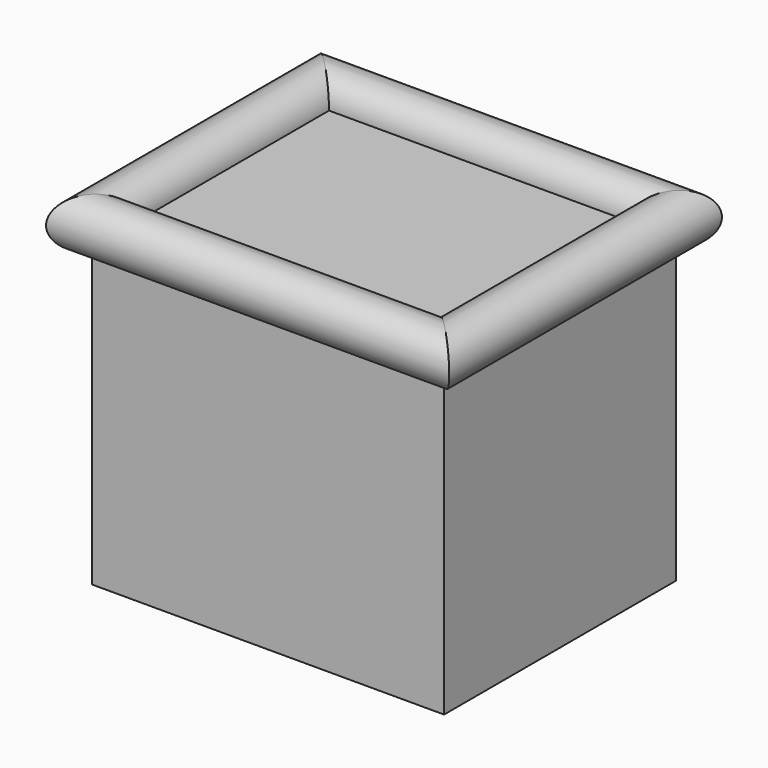
from build123d import *

# Parameters (mm, degrees)
F0_W     = 36.5402661264
F0_H     = 30.0811380148
F1_DEPTH = 33.02


with BuildPart() as f1:
    # F0 (on Top) → F1 (new body)
    with BuildSketch(Plane.XY):
        with Locations((18.2701330632, 15.0405690074)):
            Rectangle(F0_W, F0_H)
    extrude(amount=F1_DEPTH)

    # F3: sweep along a path in F3_path
    with BuildLine(Plane(origin=(0, 0, 33.02), x_dir=(0, -1, 0), z_dir=(0, 0, -1))) as f3_path:
        Line((0, 0), (0, -36.5402661264))
        Line((0, -36.5402661264), (-30.0811380148, -36.5402661264))
        Line((-30.0811380148, -36.5402661264), (-30.0811380148, 0))
        Line((-30.0811380148, 0), (0, 0))
    # F2 (on face) → F3 (sweep)
    with BuildSketch(Plane.YZ.offset(36.5402661264)):
        with BuildLine():
            Line((0, 33.02), (2.6514142758, 33.02))
            ThreePointArc((2.6514142758, 33.02), (-1.8748330141, 34.8948330141), (0, 30.3685857242))
            Line((0, 30.3685857242), (0, 33.02))
        make_face()
    sweep(path=f3_path.line, transition=Transition.RIGHT)


solid = f1.part
